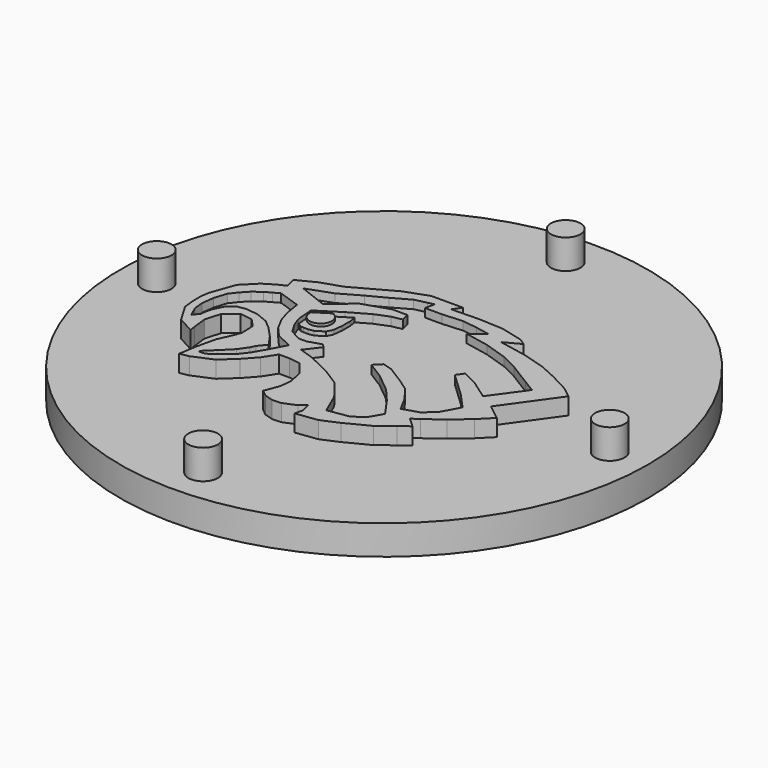
from build123d import *

# Parameters (mm, degrees)
F0_R      = 15.875
F1_DEPTH  = 1.778
F3_R      = 0.889
F4_DEPTH  = 1.778
F6_DEPTH  = 1.016
F8_DEPTH  = 0.508
F10_DEPTH = 0.508
F12_DEPTH = 0.24908
F14_DEPTH = 0.16337


with BuildPart() as f1:
    # F0 (on Top) → F1 (new body)
    with BuildSketch(Plane.XY):
        Circle(F0_R)
    extrude(amount=-F1_DEPTH)

    # F3 (on face) → F4 (join)
    with BuildSketch(Plane.XY):
        with Locations((0, 13.652203)):
            Circle(F3_R)
        with Locations((-13.659894, -0.015021)):
            Circle(F3_R)
        with Locations((0.062219, -13.682245)):
            Circle(F3_R)
        with Locations((13.674476, -0.124876)):
            Circle(F3_R)
    extrude(amount=F4_DEPTH)

    # F5 (on face) → F6 (join)
    with BuildSketch(Plane.XY):
        Polygon((-9.24754, -3.699322), (-8.235319, -4.254402), (-8.302191, -3.868135), (-8.403477, -2.990311), (-8.133378, -2.078724), (-7.424366, -1.504762), (-6.681591, -1.606049), (-6.208917, -2.112486), (-6.175154, -2.990311), (-6.411492, -3.564273), (-6.715354, -4.239522), (-6.985454, -5.421209), (-7.154267, -6.467846), (-6.614066, -6.366558), (-5.43238, -5.860121), (-4.588318, -5.083584), (-3.946831, -4.374572), (-3.440394, -3.598035), (-2.798907, -3.598035), (-2.123657, -3.699322), (-1.48217, -4.509622), (-1.313358, -5.353684), (-1.380883, -6.062696), (-1.718507, -6.94052), (-1.34712, -7.244383), (-0.806921, -7.413195), (-0.266721, -7.379433), (0.476054, -7.075571), (0.847441, -6.737946), (0.982491, -7.34567), (0.881203, -7.818345), (2.164178, -7.649533), (3.177052, -7.21062), (4.561313, -6.501608), (5.439138, -5.826359), (6.0131, -5.387446), (5.439138, -4.847247), (5.844288, -4.577147), (6.857162, -3.834372), (7.836274, -2.990311), (8.579048, -2.247536), (7.633699, -1.504762), (9.82826, 1.567624), (9.186773, 2.074061), (8.038848, 2.681786), (6.992212, 3.15446), (5.641712, 3.55961), (3.919826, 3.897235), (4.865176, 4.403672), (4.460026, 4.673772), (3.109527, 5.011396), (1.623978, 5.078922), (0, 5.040255), (0.326574, 5.517556), (0, 5.517556), (-0.548078, 5.517556), (-1.401239, 5.517556), (-1.575782, 5.517556), (-2.967719, 5.011396), (-4.250693, 4.302385), (-5.364855, 3.69466), (-6.580304, 3.28951), (-7.658069, 2.743233), (-7.506309, 2.110901), (-7.967449, 1.883261), (-8.606052, 1.500099), (-9.416352, 0.689799), (-9.927131, -0.749669), (-10.005792, -1.223414), (-9.997153, -1.83525), (-9.927131, -2.552512), align=None)
    extrude(amount=F6_DEPTH)

    # F7 (on face) → F8 (cut)
    with BuildSketch(Plane.XY.offset(1.016)):
        Polygon((6.69209, -0.92926), (8.090165, 1.003374), (7.350008, 1.455693), (5.951932, 2.31921), (4.965055, 2.812649), (3.566979, 3.264968), (2.127784, 3.552807), (2.950181, 4.169605), (2.086664, 4.334084), (1.182027, 4.457444), (-0.010449, 4.375204), (-1.038446, 4.375204), (-0.915087, 4.950882), (-1.285165, 4.868643), (-1.984203, 4.704163), (-3.0122, 4.128485), (-4.040197, 3.593927), (-5.273793, 2.894889), (-6.754109, 2.36033), (-5.068194, 1.702412), (-4.410277, 2.195851), (-3.793478, 2.771529), (-3.05332, 3.018248), (-2.148683, 3.306087), (-1.244045, 3.306087), (-1.120686, 2.812649), (-1.737484, 2.689289), (-2.559882, 2.36033), (-3.711239, 1.702412), (-5.068194, 0.838895), (-4.985955, -0.189102), (-4.780355, -0.76478), (-4.410277, -1.381578), (-3.752358, -1.751657), (-3.258919, -1.751657), (-2.477643, -1.504938), (-2.272042, -1.710537), (-2.929961, -2.574055), (-2.066443, -2.861894), (-0.627248, -3.560932), (0.400749, -4.21885), (1.264266, -5.329086), (1.839945, -6.644922), (3.114661, -6.439323), (3.772579, -5.987004), (4.224897, -5.205727), (3.44362, -4.09549), (2.703462, -3.231973), (1.593226, -2.327336), (0.606349, -1.710537), (1.017547, -1.299339), (1.593226, -1.463818), (2.580103, -2.080616), (3.36138, -2.615175), (3.978178, -3.437572), (4.471616, -4.34221), (5.417374, -4.05437), (6.075292, -3.478692), (6.65097, -2.409575), (5.746333, -1.422698), (4.307137, -0.065742), (4.594977, 0.345456), (5.581853, -0.147982), align=None)
    extrude(amount=-F8_DEPTH, mode=Mode.SUBTRACT)

    # F9 (on face) → F10 (cut)
    with BuildSketch(Plane.XY.offset(1.016)):
        Polygon((-9.177754, -3.023744), (-8.886664, -2.65503), (-8.847852, -2.26691), (-8.750822, -1.956414), (-8.479138, -1.39364), (-8.0328, -1.024926), (-7.54765, -0.947302), (-6.810222, -1.024926), (-6.053389, -1.335422), (-5.548832, -1.762354), (-4.947247, -2.402752), (-4.442691, -3.120774), (-4.830811, -3.605924), (-4.966652, -3.877607), (-5.335366, -4.420976), (-5.975764, -5.061373), (-6.460914, -5.507711), (-6.587563, -5.717657), (-6.208636, -5.701771), (-5.89814, -5.507711), (-5.02487, -4.809096), (-4.617345, -4.285133), (-4.132194, -3.450676), (-3.666451, -2.558), (-4.617345, -2.131068), (-5.160713, -1.510076), (-5.568238, -0.753242), (-5.801111, 0.022998), (-5.936952, 0.876862), (-7.25656, 1.3232), (-7.605868, 1.12914), (-7.993988, 0.915674), (-8.459732, 0.566366), (-8.847852, 0.15884), (-9.19716, -0.287498), (-9.430031, -1.024926), (-9.527062, -1.762354), (-9.468843, -2.383346), align=None)
    extrude(amount=-F10_DEPTH, mode=Mode.SUBTRACT)


with BuildPart() as f12:
    # F11 (on face) → F12 (new body)
    with BuildSketch(Plane.XY.offset(0.508)):
        Polygon((-3.31393, 1.929446), (-5.068194, 0.838895), (-4.985955, -0.189102), (-4.753752, -0.336136), (-4.570583, -0.354453), (-4.295831, -0.354453), (-3.966128, -0.299502), (-3.489891, -0.006433), (-3.325039, 0.304953), (-3.251772, 0.909408), (-3.251772, 1.513863), align=None)
    extrude(amount=F12_DEPTH)


with BuildPart() as f14:
    # F13 (on face) → F14 (new body)
    with BuildSketch(Plane.XY.offset(0.75708)):
        with BuildLine():
            Line((-4.191062, 1.38417), (-5.068194, 0.838895))
            ThreePointArc((-5.068194, 0.838895), (-4.053278, 0.184414), (-4.191062, 1.38417))
        make_face()
    extrude(amount=F14_DEPTH)


solid = Compound([f1.part, f12.part, f14.part])
